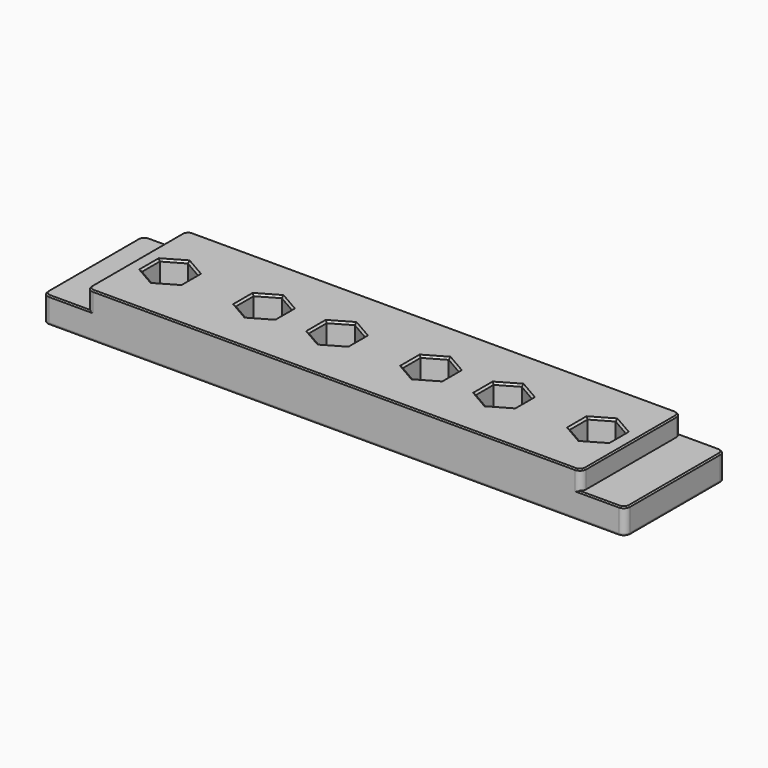
from build123d import *

# Parameters (mm, degrees)
BOX002_W               = 10
BOX002_H               = 30
BOX002_DEPTH           = 10
BOX001_W               = 10
BOX001_H               = 30
BOX001_DEPTH           = 10
BOX_W                  = 93
BOX_H                  = 20
BOX_DEPTH              = 7
CUT001_PLACEMENT_ANGLE = 180
POCKET_DEPTH           = 5.5
SKETCH001_R            = 1.85
POCKET001_DEPTH        = 30
FILLET_R               = 1
FILLET001_R            = 1
CHAMFER001_SIZE        = 0.2
CHAMFER002_SIZE        = 0.3
CHAMFER_SIZE           = 0.1
CHAMFER003_SIZE        = 0.2


with BuildPart() as obj1:
    # Box002 → Box002 (new body)
    with BuildSketch(Plane(origin=(39.5, -15, -7), x_dir=(1, 0, 0), z_dir=(0, 0, 1))):
        with Locations((5, 15)):
            Rectangle(BOX002_W, BOX002_H)
    extrude(amount=BOX002_DEPTH)


with BuildPart() as obj2:
    # Box001 → Box001 (new body)
    with BuildSketch(Plane(origin=(-49.5, -15, -7), x_dir=(1, 0, 0), z_dir=(0, 0, 1))):
        with Locations((5, 15)):
            Rectangle(BOX001_W, BOX001_H)
    extrude(amount=BOX001_DEPTH)


with BuildPart() as chamfer001:
    # Box → Box (new body)
    with BuildSketch(Plane(origin=(-46.5, -10, 0), x_dir=(1, 0, 0), z_dir=(0, 0, 1))):
        with Locations((46.5, 10)):
            Rectangle(BOX_W, BOX_H)
    extrude(amount=BOX_DEPTH)

    # Cut: cut obj2
    add(obj2.part, mode=Mode.SUBTRACT)

    # Cut001: cut obj1
    add(obj1.part, mode=Mode.SUBTRACT)


with BuildPart() as chamfer001_1:
    # Cut001 placement: moved
    add(chamfer001.part.moved(Location((0, 0, 7))).rotate(Axis((0, 0, 7), (1, 0, 0)), CUT001_PLACEMENT_ANGLE))

    # Sketch → Pocket (cut)
    with BuildSketch(Plane.XY.offset(7)):
        Polygon((10.57439, 1.775), (7.5, 3.55), (4.42561, 1.775), (4.42561, -1.775), (7.5, -3.55), (10.57439, -1.775), align=None)
        Polygon((-4.42561, 1.775), (-7.5, 3.55), (-10.57439, 1.775), (-10.57439, -1.775), (-7.5, -3.55), (-4.42561, -1.775), align=None)
        Polygon((-16.092276, 1.775), (-19.166666, 3.55), (-22.241056, 1.775), (-22.241056, -1.775), (-19.166666, -3.55), (-16.092276, -1.775), align=None)
        Polygon((-31.092276, 1.775), (-34.166666, 3.55), (-37.241056, 1.775), (-37.241056, -1.775), (-34.166666, -3.55), (-31.092276, -1.775), align=None)
        Polygon((22.241056, -1.775), (22.241056, 1.775), (19.166666, 3.55), (16.092276, 1.775), (16.092276, -1.775), (19.166666, -3.55), align=None)
        Polygon((37.241056, -1.775), (37.241056, 1.775), (34.166666, 3.55), (31.092276, 1.775), (31.092276, -1.775), (34.166666, -3.55), align=None)
    extrude(amount=-POCKET_DEPTH, mode=Mode.SUBTRACT)

    # Sketch001 → Pocket001 (cut)
    with BuildSketch(Plane.XY.offset(7)):
        with Locations((-19.1667, 0)):
            Circle(SKETCH001_R)
        with Locations((-7.5, 0)):
            Circle(SKETCH001_R)
        with Locations((7.5, 0)):
            Circle(SKETCH001_R)
        with Locations((19.1667, 0)):
            Circle(SKETCH001_R)
        with Locations((34.1667, 0)):
            Circle(SKETCH001_R)
        with Locations((-34.1667, 0)):
            Circle(SKETCH001_R)
    extrude(amount=-POCKET001_DEPTH, mode=Mode.SUBTRACT)

    # Fillet
    fillet_edges = [chamfer001_1.edges().sort_by_distance(p)[0] for p in [
        (46.5, 10, 2),
        (46.5, -10, 2),
        (-46.5, 10, 2),
        (-46.5, -10, 2),
    ]]
    fillet(fillet_edges, radius=FILLET_R)

    # Fillet001
    fillet001_edges = [chamfer001_1.edges().sort_by_distance(p)[0] for p in [
        (39.5, -10, 5.5),
        (39.5, 10, 5.5),
        (-39.5, -10, 5.5),
        (-39.5, 10, 5.5),
    ]]
    fillet(fillet001_edges, radius=FILLET001_R)

    # Chamfer001
    chamfer001_edges = [chamfer001_1.edges().sort_by_distance(p)[0] for p in [
        (-46.5, 0, 4),
        (-46.207107, 9.707107, 4),
        (-42.5, 10, 4),
        (-42.5, -10, 4),
        (-46.207107, -9.707107, 4),
        (-39, -10, 4),
        (0, -10, 7),
        (-39.207107, -9.707107, 7),
        (-39.5, 0, 7),
        (-39, 10, 4),
        (-39.207107, 9.707107, 7),
        (0, 10, 7),
        (39.207107, -9.707107, 7),
        (39, -10, 4),
        (42.5, -10, 4),
        (46.207107, -9.707107, 4),
        (46.5, 0, 4),
        (46.207107, 9.707107, 4),
        (42.5, 10, 4),
        (39, 10, 4),
        (39.207107, 9.707107, 7),
        (39.5, 0, 7),
    ]]
    chamfer(chamfer001_edges, length=CHAMFER001_SIZE)

    # Chamfer002
    chamfer002_edges = [chamfer001_1.edges().sort_by_distance(p)[0] for p in [
        (-32.629471, 2.6625, 7),
        (-31.092276, 0, 7),
        (-32.629471, -2.6625, 7),
        (-35.703861, 2.6625, 7),
        (-37.241056, 0, 7),
        (-35.703861, -2.6625, 7),
        (35.703861, -2.6625, 7),
        (32.629471, -2.6625, 7),
        (31.092276, 0, 7),
        (32.629471, 2.6625, 7),
        (35.703861, 2.6625, 7),
        (37.241056, 0, 7),
        (-16.092276, 0, 7),
        (-17.629471, -2.6625, 7),
        (-20.703861, -2.6625, 7),
        (-22.241056, 0, 7),
        (-20.703861, 2.6625, 7),
        (-17.629471, 2.6625, 7),
        (-5.962805, -2.6625, 7),
        (-9.037195, -2.6625, 7),
        (-10.57439, 0, 7),
        (-9.037195, 2.6625, 7),
        (-5.962805, 2.6625, 7),
        (-4.42561, 0, 7),
        (5.962805, 2.6625, 7),
        (4.42561, 0, 7),
        (5.962805, -2.6625, 7),
        (9.037195, -2.6625, 7),
        (10.57439, 0, 7),
        (9.037195, 2.6625, 7),
        (20.703861, -2.6625, 7),
        (17.629471, -2.6625, 7),
        (16.092276, 0, 7),
        (17.629471, 2.6625, 7),
        (20.703861, 2.6625, 7),
        (22.241056, 0, 7),
    ]]
    chamfer(chamfer002_edges, length=CHAMFER002_SIZE)


with BuildPart() as chamfer004:
    # Chamfer base: copy of Chamfer001
    add(chamfer001_1.part)

    # Chamfer
    chamfer_edges = [chamfer004.edges().sort_by_distance(p)[0] for p in [
        (-21.0167, 0, 1.5),
        (32.3167, 0, 1.5),
        (-36.0167, 0, 1.5),
        (-9.35, 0, 1.5),
        (5.65, 0, 1.5),
        (17.3167, 0, 1.5),
    ]]
    chamfer(chamfer_edges, length=CHAMFER_SIZE)


with BuildPart() as chamfer003:
    # Chamfer003 base: copy of Chamfer001
    add(chamfer001_1.part)

    # Chamfer003
    chamfer003_edges = [chamfer003.edges().sort_by_distance(p)[0] for p in [
        (0, -10, 0),
        (0, 10, 0),
        (-46.207107, -9.707107, 0),
        (-46.5, 0, 0),
        (-46.207107, 9.707107, 0),
        (46.207107, 9.707107, 0),
        (46.207107, -9.707107, 0),
        (46.5, 0, 0),
        (5.65, 0, 0),
        (17.3167, 0, 0),
        (32.3167, 0, 0),
        (-21.0167, 0, 0),
        (-9.35, 0, 0),
        (-36.0167, 0, 0),
    ]]
    chamfer(chamfer003_edges, length=CHAMFER003_SIZE)


solid = Compound([chamfer004.part, chamfer003.part])
